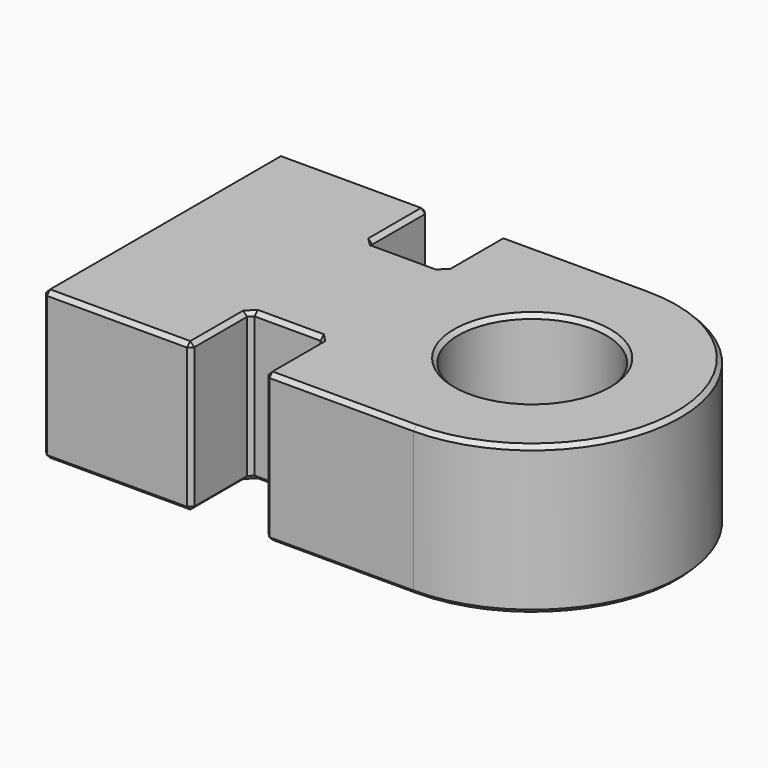
from build123d import *

# Parameters (mm, degrees)
SKETCH_R     = 10
PAD_DEPTH    = 20
CHAMFER_SIZE = 0.55


with BuildPart() as part:
    # Sketch → Pad (new body)
    with BuildSketch(Plane.XY):
        with BuildLine():
            Line((-50, 20), (-50, -20))
            Line((-50, -20), (-30, -20))
            Line((-30, -20), (-30, -10))
            Line((-30, -10), (-20, -10))
            Line((-20, -10), (-20, -20))
            Line((-20, -20), (0, -20))
            ThreePointArc((0, -20), (20.000031, 0), (0, 20))
            Line((0, 20), (-20, 20))
            Line((-20, 20), (-20, 10))
            Line((-20, 10), (-30, 10))
            Line((-30, 10), (-30, 20))
            Line((-30, 20), (-50, 20))
        make_face()
        with Locations((3.1e-05, 0)):
            Circle(SKETCH_R, mode=Mode.SUBTRACT)
    extrude(amount=PAD_DEPTH)

    # Chamfer
    chamfer_edges = [part.edges().sort_by_distance(p)[0] for p in [
        (-50, 20, 10),
        (-50, -20, 10),
        (-50, 0, 0),
        (-50, 0, 20),
        (-30, -20, 10),
        (-40, -20, 0),
        (-40, -20, 20),
        (-30, -10, 10),
        (-30, -15, 0),
        (-30, -15, 20),
        (-20, -10, 10),
        (-25, -10, 0),
        (-25, -10, 20),
        (-20, -20, 10),
        (-20, -15, 0),
        (-20, -15, 20),
        (0, -20, 10),
        (-10, -20, 0),
        (-10, -20, 20),
        (0, 20, 10),
        (20.000031, 0, 0),
        (20.000031, 0, 20),
        (-20, 20, 10),
        (-10, 20, 0),
        (-10, 20, 20),
        (-20, 10, 10),
        (-20, 15, 0),
        (-20, 15, 20),
        (-30, 10, 10),
        (-25, 10, 0),
        (-25, 10, 20),
        (-30, 20, 10),
        (-30, 15, 0),
        (-30, 15, 20),
        (-40, 20, 0),
        (-40, 20, 20),
        (10.000031, 0, 10),
        (-9.999969, 0, 0),
        (-9.999969, 0, 20),
    ]]
    chamfer(chamfer_edges, length=CHAMFER_SIZE)


solid = part.part
